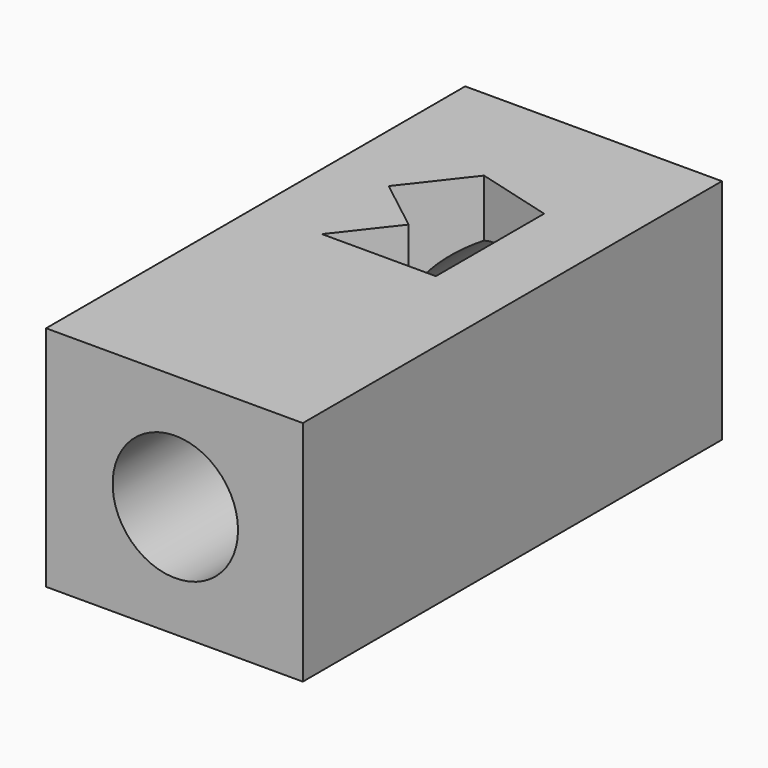
from build123d import *

# Parameters (mm, degrees)
F0_W     = 62.237114
F0_H     = 55.183612
F1_DEPTH = 127
F2_R     = 15.198366
F3_DEPTH = 127
F5_DEPTH = 25.4


with BuildPart() as f1:
    # F0 (on Front) → F1 (new body)
    with BuildSketch(Plane.XZ):
        with Locations((31.118557, 27.591806)):
            Rectangle(F0_W, F0_H)
    extrude(amount=F1_DEPTH)

    # F2 (on face) → F3 (cut)
    with BuildSketch(Plane.XZ.offset(127)):
        with Locations((31.334992, 27.2323)):
            Circle(F2_R)
    extrude(amount=-F3_DEPTH, mode=Mode.SUBTRACT)

    # F4 (on face) → F5 (cut)
    with BuildSketch(Plane.XY.offset(55.183612)):
        Polygon((44.284318, -31.432733), (25.63932, -26.329752), (14.235882, -40.970355), (27.033182, -50.93806), (16.672973, -64.239287), (44.284318, -64.239287), align=None)
    extrude(amount=-F5_DEPTH, mode=Mode.SUBTRACT)


solid = f1.part
